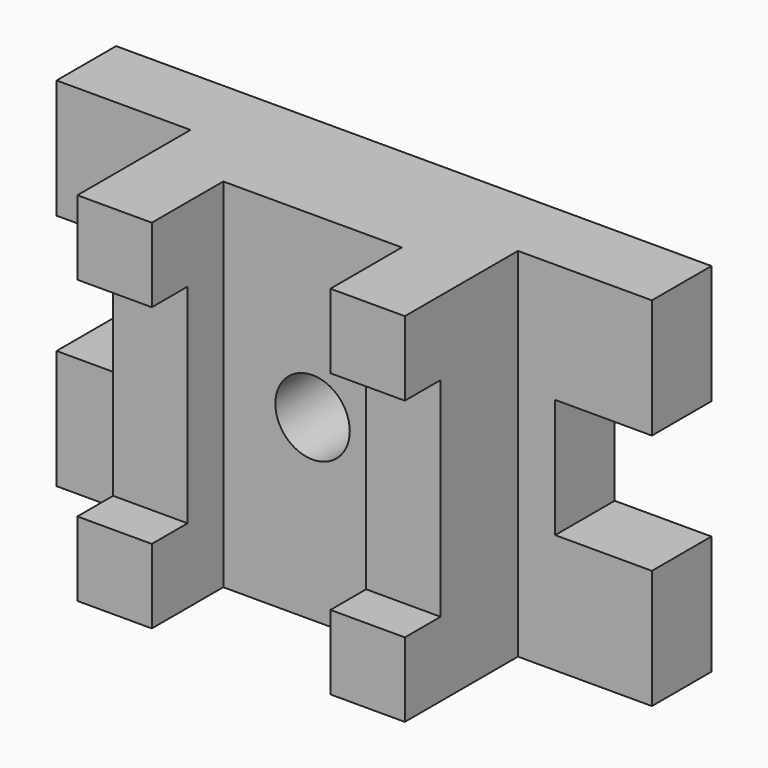
from build123d import *

# Parameters (mm, degrees)
F0_W     = 31.75
F0_H     = 31.75
F1_DEPTH = 31.75
F2_DEPTH = 92.075
F3_DEPTH = 53.975
F0_H_2   = 88.9
F4_DEPTH = 73.025
F5_SCALE = 0.5


with BuildPart() as f1:
    # F0 (on Front) → F1 (new body)
    with BuildSketch(Plane.XZ):
        Polygon((-69.85, 84.0967045993), (-127, 84.0967045993), (-127, 33.2967045993), (-85.725, 33.2967045993), (-85.725, -17.5032954007), (-127, -17.5032954007), (-127, -68.3032954007), (-69.85, -68.3032954007), (-69.85, -36.5532954007), (-69.85, 52.3467045993), align=None)
        with Locations((-53.975, 68.2217045993)):
            Rectangle(F0_W, F0_H)
        with BuildLine():
            Line((0, 84.0967045993), (-38.1, 84.0967045993))
            Line((-38.1, 84.0967045993), (-38.1, 52.3467045993))
            Line((-38.1, 52.3467045993), (-38.1, -36.5532954007))
            Line((-38.1, -36.5532954007), (-38.1, -68.3032954007))
            Line((-38.1, -68.3032954007), (0, -68.3032954007))
            Line((0, -68.3032954007), (0, -15.875))
            Line((0, -15.875), (0, -7.9782954007))
            ThreePointArc((0, -7.9782954007), (-15.875, 7.8967045993), (0, 23.7717045993))
            Line((0, 23.7717045993), (0, 84.0967045993))
        make_face()
        with BuildLine():
            Line((38.1, 84.0967045993), (0, 84.0967045993))
            Line((0, 84.0967045993), (0, 23.7717045993))
            ThreePointArc((0, 23.7717045993), (11.2253201513, 19.1220247506), (15.875, 7.8967045993))
            ThreePointArc((15.875, 7.8967045993), (11.2253201513, -3.3286155521), (0, -7.9782954007))
            Line((0, -7.9782954007), (0, -15.875))
            Line((0, -15.875), (0, -68.3032954007))
            Line((0, -68.3032954007), (38.1, -68.3032954007))
            Line((38.1, -68.3032954007), (38.1, -36.5532954007))
            Line((38.1, -36.5532954007), (38.1, 52.3467045993))
            Line((38.1, 52.3467045993), (38.1, 84.0967045993))
        make_face()
        with Locations((-53.975, -52.4282954007)):
            Rectangle(F0_W, F0_H)
        with Locations((53.975, 68.2217045993)):
            Rectangle(F0_W, F0_H)
        Polygon((127, 84.0967045993), (69.85, 84.0967045993), (69.85, 52.3467045993), (69.85, -36.5532954007), (69.85, -68.3032954007), (127, -68.3032954007), (127, -17.5032954007), (85.725, -17.5032954007), (85.725, 33.2967045993), (127, 33.2967045993), align=None)
        with Locations((53.975, -52.4282954007)):
            Rectangle(F0_W, F0_H)
    extrude(amount=F1_DEPTH)

    # F0 (on Front) → F2 (join)
    with BuildSketch(Plane.XZ):
        with Locations((-53.975, 68.2217045993)):
            Rectangle(F0_W, F0_H)
        with Locations((-53.975, -52.4282954007)):
            Rectangle(F0_W, F0_H)
        with Locations((53.975, -52.4282954007)):
            Rectangle(F0_W, F0_H)
        with Locations((53.975, 68.2217045993)):
            Rectangle(F0_W, F0_H)
    extrude(amount=F2_DEPTH)

    # F0 (on Front) → F3 (join)
    with BuildSketch(Plane.XZ):
        with BuildLine():
            Line((0, 84.0967045993), (-38.1, 84.0967045993))
            Line((-38.1, 84.0967045993), (-38.1, 52.3467045993))
            Line((-38.1, 52.3467045993), (-38.1, -36.5532954007))
            Line((-38.1, -36.5532954007), (-38.1, -68.3032954007))
            Line((-38.1, -68.3032954007), (0, -68.3032954007))
            Line((0, -68.3032954007), (0, -15.875))
            Line((0, -15.875), (0, -7.9782954007))
            ThreePointArc((0, -7.9782954007), (-15.875, 7.8967045993), (0, 23.7717045993))
            Line((0, 23.7717045993), (0, 84.0967045993))
        make_face()
        with BuildLine():
            Line((38.1, 84.0967045993), (0, 84.0967045993))
            Line((0, 84.0967045993), (0, 23.7717045993))
            ThreePointArc((0, 23.7717045993), (11.2253201513, 19.1220247506), (15.875, 7.8967045993))
            ThreePointArc((15.875, 7.8967045993), (11.2253201513, -3.3286155521), (0, -7.9782954007))
            Line((0, -7.9782954007), (0, -15.875))
            Line((0, -15.875), (0, -68.3032954007))
            Line((0, -68.3032954007), (38.1, -68.3032954007))
            Line((38.1, -68.3032954007), (38.1, -36.5532954007))
            Line((38.1, -36.5532954007), (38.1, 52.3467045993))
            Line((38.1, 52.3467045993), (38.1, 84.0967045993))
        make_face()
    extrude(amount=F3_DEPTH)

    # F0 (on Front) → F4 (join)
    with BuildSketch(Plane.XZ):
        with Locations((-53.975, 7.8967045993)):
            Rectangle(F0_W, F0_H_2)
        with Locations((53.975, 7.8967045993)):
            Rectangle(F0_W, F0_H_2)
    extrude(amount=F4_DEPTH)


with BuildPart() as f1_1:
    # F5: moved
    add(f1.part.scale(F5_SCALE).moved(Location((-63.5, -15.875, 42.0483522996))))


solid = f1_1.part
